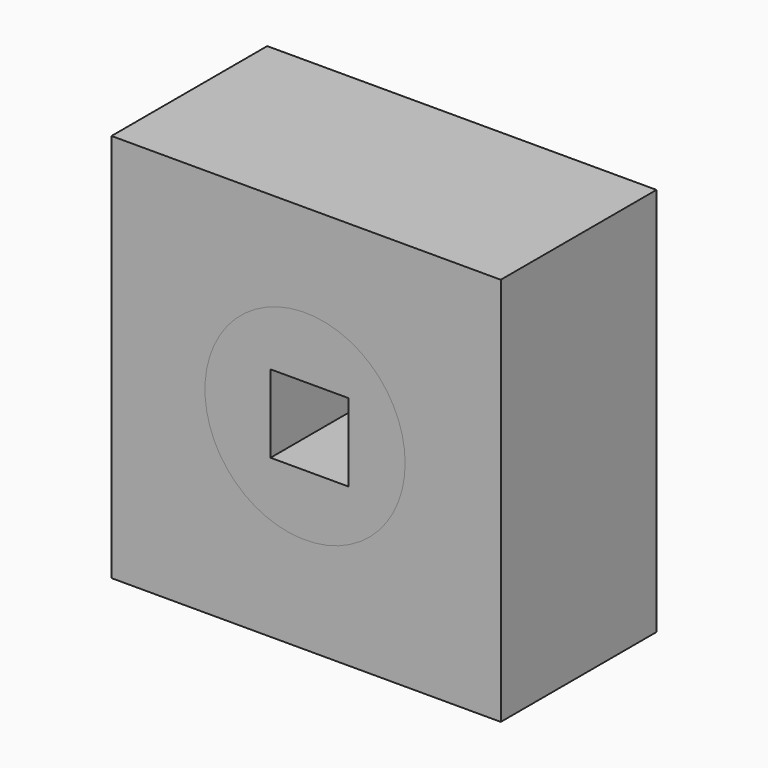
from build123d import *

# Parameters (mm, degrees)
F0_W     = 50.8
F0_H     = 50.8
F0_R     = 13.064391
F1_DEPTH = 25.4
F2_DEPTH = 25.4
F3_W     = 10.16
F3_H     = 10.16
F4_DEPTH = 25.4


with BuildPart() as f1:
    # F0 (on Front) → F1 (new body)
    with BuildSketch(Plane.XZ):
        with Locations((-19.252045, 13.883409)):
            Rectangle(F0_W, F0_H)
        with Locations((-19.396363, 14.143182)):
            Circle(F0_R, mode=Mode.SUBTRACT)
    extrude(amount=F1_DEPTH)


with BuildPart() as f2:
    # F0 (on Front) → F2 (new body)
    with BuildSketch(Plane.XZ):
        with Locations((-19.396363, 14.143182)):
            Circle(F0_R)
    extrude(amount=F2_DEPTH)

    # F3 (on face) → F4 (cut)
    with BuildSketch(Plane.XZ):
        with Locations((-18.818023, 14.143182)):
            Rectangle(F3_W, F3_H)
    extrude(amount=F4_DEPTH, mode=Mode.SUBTRACT)


solid = Compound([f1.part, f2.part])
